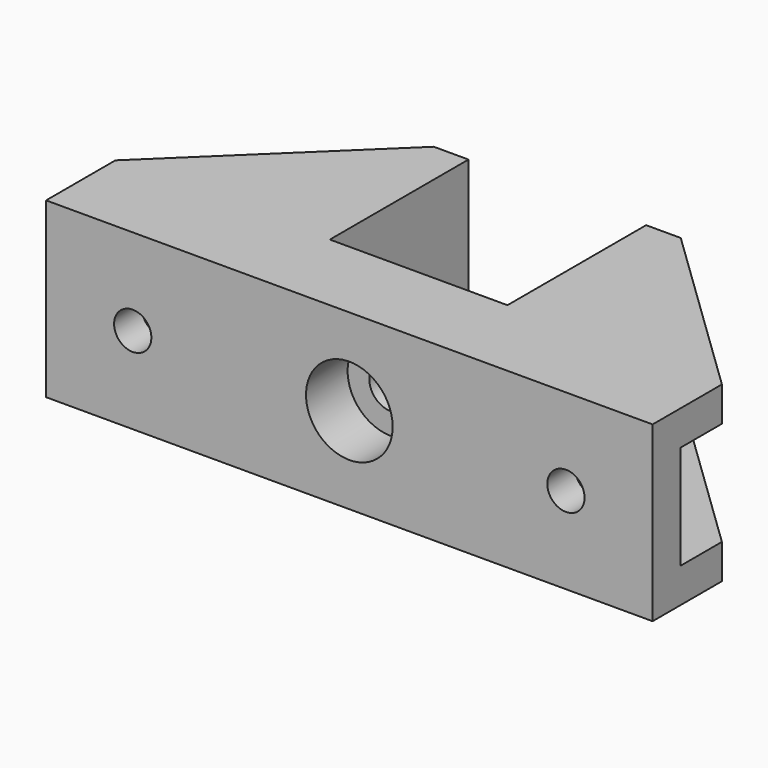
from build123d import *

# Parameters (mm, degrees)
F1_DEPTH  = 20
F3_DEPTH  = 20
F4_W      = 20.75
F4_H      = 12
F5_DEPTH  = 6
F7_DEPTH  = 4
F9_DEPTH  = 4
F10_R     = 2.15
F10_R_2   = 2.5
F11_DEPTH = 30.001
F12_R     = 5
F13_DEPTH = 6
F14_SIZE  = 1.5
F15_R     = 2.65
F16_DEPTH = 49.251


with BuildPart() as f1:
    # F0 (on Top) → F1 (new body)
    with BuildSketch(Plane.XY):
        Polygon((0, 10), (0, 0), (70, 0), (70, 10), (49.25, 10), (49.25, 30), (45.25, 30), (45.25, 10), (24.75, 10), (24.75, 30), (20.75, 30), (20.75, 10), align=None)
    extrude(amount=F1_DEPTH)

    # F2 (on face) → F3 (join, through all)
    with BuildSketch(Plane.XY.offset(20)):
        Polygon((32, 11.5), (30.5, 10), (39.5, 10), (38, 11.5), align=None)
    extrude(amount=-F3_DEPTH)

    # F4 (on face) → F5 (cut)
    with BuildSketch(Plane(origin=(0, 10, 0), x_dir=(-1, 0, 0), z_dir=(0, 1, 0))):
        with Locations((-10.375, 10)):
            Rectangle(F4_W, F4_H)
        with Locations((-59.625, 10)):
            Rectangle(F4_W, F4_H)
    extrude(amount=-F5_DEPTH, mode=Mode.SUBTRACT)

    # F6 (on face) → F7 (join, through all)
    with BuildSketch(Plane(origin=(0, 0, 0), x_dir=(1, 0, 0), z_dir=(0, 0, -1))):
        Polygon((20.75, -10), (0, -10), (20.75, -30), align=None)
        Polygon((70, -10), (49.25, -10), (49.25, -30), align=None)
    extrude(amount=-F7_DEPTH)

    # F8 (on face) → F9 (join, through all)
    with BuildSketch(Plane.XY.offset(20)):
        Polygon((20.75, 30), (0, 10), (20.75, 10), align=None)
        Polygon((49.25, 10), (70, 10), (49.25, 30), align=None)
    extrude(amount=-F9_DEPTH)

    # F10 (on face) → F11 (cut, through all)
    with BuildSketch(Plane.XZ):
        with Locations((10, 10)):
            Circle(F10_R)
        with Locations((35, 10)):
            Circle(F10_R_2)
        with Locations((60, 10)):
            Circle(F10_R)
    extrude(amount=-F11_DEPTH, mode=Mode.SUBTRACT)

    # F12 (on face) → F13 (cut)
    with BuildSketch(Plane.XZ):
        with Locations((35, 10)):
            Circle(F12_R)
    extrude(amount=-F13_DEPTH, mode=Mode.SUBTRACT)

    # F14
    f14_edges = [f1.edges().sort_by_distance(p)[0] for p in [
        (35, 11.5, 20),
        (35, 11.5, 0),
    ]]
    chamfer(f14_edges, length=F14_SIZE)

    # F15 (on face) → F16 (cut, through all)
    with BuildSketch(Plane(origin=(20.75, 0, 0), x_dir=(0, -1, 0), z_dir=(-1, 0, 0))):
        with Locations((-20, 10)):
            Circle(F15_R)
    extrude(amount=-F16_DEPTH, mode=Mode.SUBTRACT)


solid = f1.part
